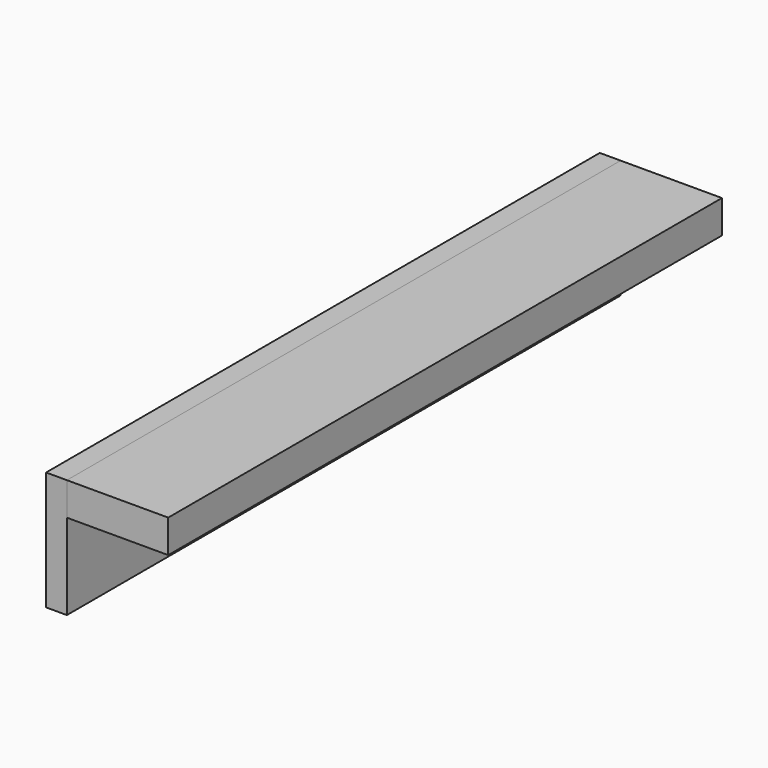
from build123d import *

# Parameters (mm, degrees)
F1_DEPTH = 400
F0_W     = 58.563364
F0_H     = 19.075615
F2_DEPTH = 400


with BuildPart() as f1:
    # F0 (on Front) → F1 (new body)
    with BuildSketch(Plane.XZ):
        Polygon((12.028577, 0), (0, 0), (0, -68.647929), (12.028577, -68.647929), (12.028577, -19.075615), align=None)
    extrude(amount=F1_DEPTH)


with BuildPart() as f2:
    # F0 (on Front) → F2 (new body)
    with BuildSketch(Plane.XZ):
        with Locations((41.310259, -9.537807)):
            Rectangle(F0_W, F0_H)
    extrude(amount=F2_DEPTH)


solid = Compound([f1.part, f2.part])
